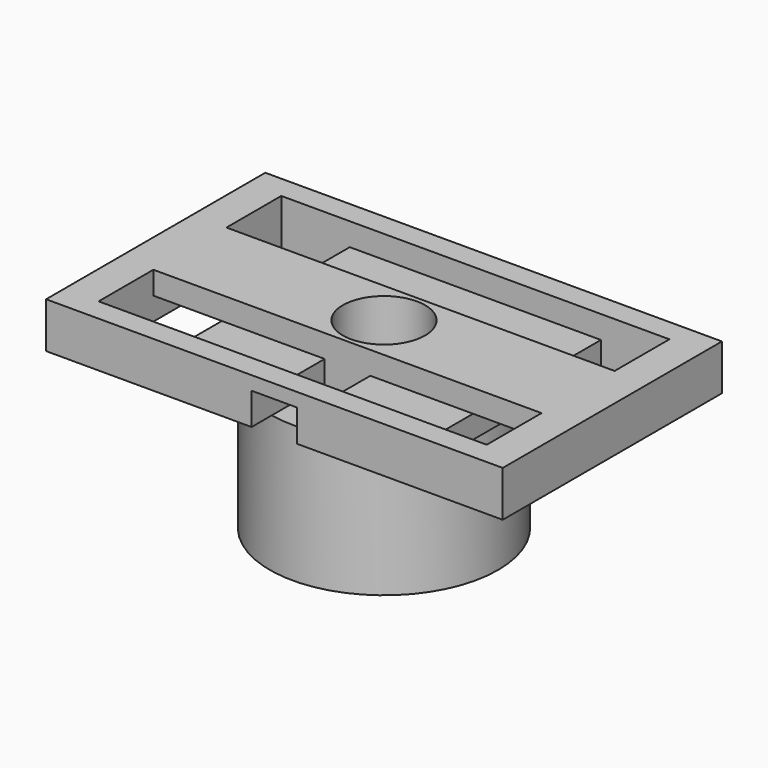
from build123d import *

# Parameters (mm, degrees)
F0_W      = 10
F0_H      = 6
F0_W_2    = 1.5
F0_H_2    = 5
F1_DEPTH  = 0.5
F2_W      = 10
F2_H      = 6
F3_DEPTH  = 0.5
F5_DEPTH  = 0.5
F6_W      = 1
F6_H      = 0.5
F7_DEPTH  = 2
F8_R      = 2.5
F8_R_2    = 0.9
F9_DEPTH  = 3
F10_R     = 0.9
F11_DEPTH = 4.001
F12_DEPTH = 0.2


with BuildPart() as f1:
    # F0 (on Top) → F1 (new body)
    with BuildSketch(Plane.XY):
        Rectangle(F0_W, F0_H)
        with Locations((-3.5, 0)):
            Rectangle(F0_W_2, F0_H_2, mode=Mode.SUBTRACT)
        with Locations((3.5, 0)):
            Rectangle(F0_W_2, F0_H_2, mode=Mode.SUBTRACT)
    extrude(amount=F1_DEPTH)

    # F2 (on face) → F3 (join)
    with BuildSketch(Plane.XY.offset(0.5)):
        Rectangle(F2_W, F2_H)
    extrude(amount=F3_DEPTH)

    # F4 (on face) → F5 (cut)
    with BuildSketch(Plane.XY.offset(1)):
        Polygon((-4.25, -1), (-4.25, -2.5), (-2.75, -2.5), (2.75, -2.5), (4.25, -2.5), (4.25, -1), align=None)
        Polygon((-4.25, 2.5), (-4.25, 1), (4.25, 1), (4.25, 2.5), (2.75, 2.5), (-2.75, 2.5), align=None)
    extrude(amount=-F5_DEPTH, mode=Mode.SUBTRACT)

    # F6 (on face) → F7 (cut, through all)
    with BuildSketch(Plane.XZ.offset(3)):
        with Locations((0, 0.45)):
            Rectangle(F6_W, F6_H)
    extrude(amount=-F7_DEPTH, mode=Mode.SUBTRACT)

    # F8 (on face) → F9 (join)
    with BuildSketch(Plane.XY):
        Circle(F8_R)
        Circle(F8_R_2, mode=Mode.SUBTRACT)
    extrude(amount=-F9_DEPTH)

    # F10 (on face) → F11 (cut, through all)
    with BuildSketch(Plane.XY.offset(1)):
        Circle(F10_R)
    extrude(amount=-F11_DEPTH, mode=Mode.SUBTRACT)

    # F12 (cut, through all): a face of the model
    f12_faces = [f1.faces().sort_by_distance(p)[0] for p in [
        (0, -2, 0.2),
    ]]
    extrude(f12_faces, amount=-F12_DEPTH, mode=Mode.SUBTRACT)


solid = f1.part
